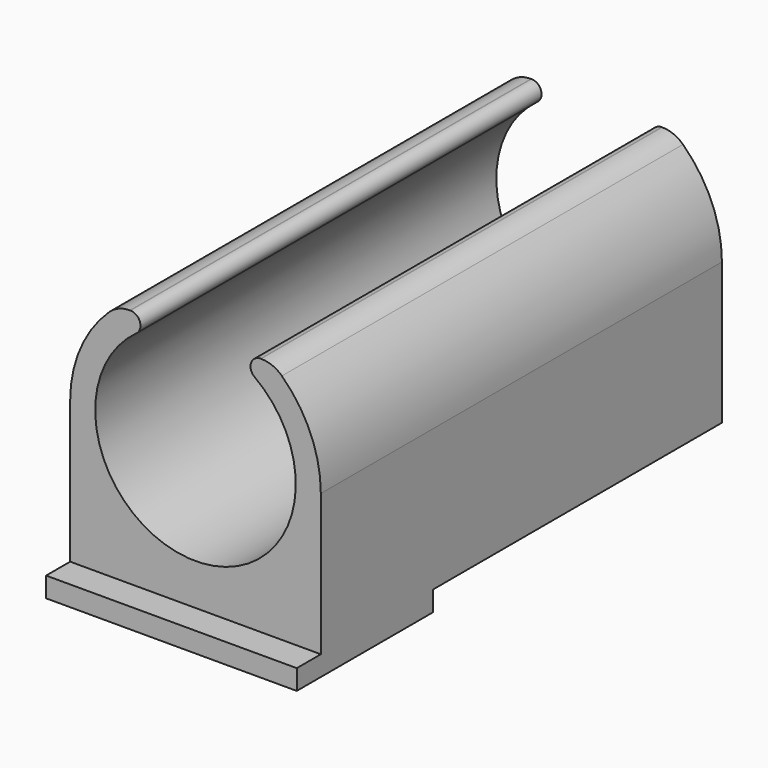
from build123d import *

# Parameters (mm, degrees)
F1_DEPTH = 50
F2_W     = 25
F2_H     = 17
F3_DEPTH = 2


with BuildPart() as f1:
    # F0 (on Front) → F1 (new body)
    with BuildSketch(Plane.XZ):
        with BuildLine():
            Line((0, 14.117118), (0, 0))
            Line((0, 0), (25, 0))
            Line((25, 0), (25, 14.117118))
            ThreePointArc((25, 14.117118), (23.98797, 19.044242), (21.115752, 23.173542))
            ThreePointArc((21.115752, 23.173542), (20.161384, 23.785734), (19.047972, 24))
            Line((19.047972, 24), (18.98802, 24))
            ThreePointArc((18.98802, 24), (18.037353, 23.310214), (18.3982, 22.192465))
            ThreePointArc((18.3982, 22.192465), (12.5, 4.117118), (6.6018, 22.192465))
            ThreePointArc((6.6018, 22.192465), (6.962647, 23.310214), (6.01198, 24))
            Line((6.01198, 24), (5.952028, 24))
            ThreePointArc((5.952028, 24), (4.838616, 23.785734), (3.884248, 23.173542))
            ThreePointArc((3.884248, 23.173542), (1.01203, 19.044242), (0, 14.117118))
        make_face()
    extrude(amount=F1_DEPTH)

    # F2 (on face) → F3 (join)
    with BuildSketch(Plane(origin=(0, 0, 0), x_dir=(1, 0, 0), z_dir=(0, 0, -1))):
        with Locations((12.5, 44.5)):
            Rectangle(F2_W, F2_H)
    extrude(amount=F3_DEPTH)


solid = f1.part
